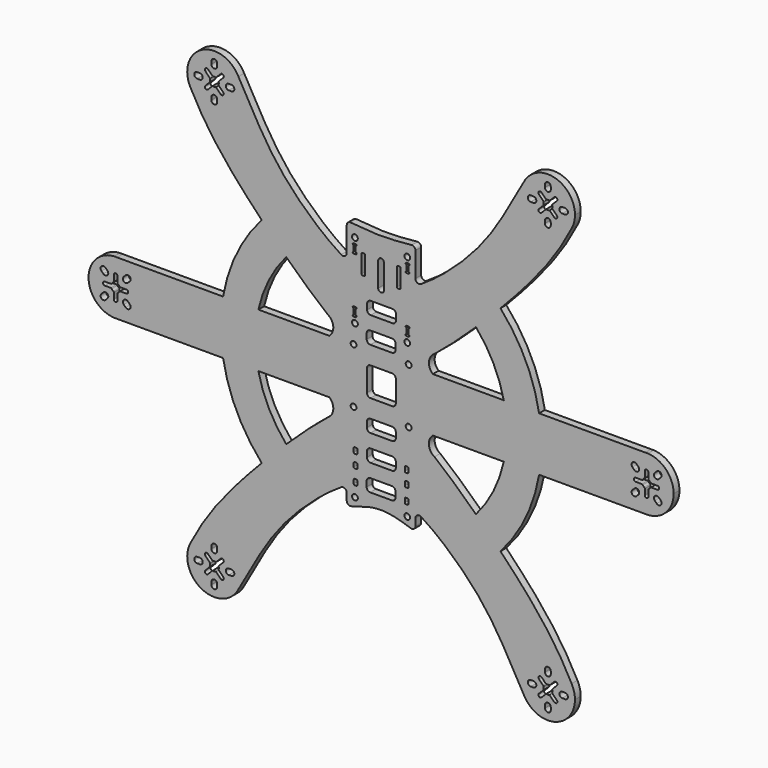
from build123d import *

# Parameters (mm, degrees)
F0_R     = 1.6
F1_DEPTH = 4


with BuildPart() as f1:
    # F0 (on Front) → F1 (new body)
    with BuildSketch(Plane.XZ):
        with BuildLine():
            ThreePointArc((-105.5713879056, 111.0188454458), (-88.6968670769, 103.6331164935), (-77.3869188983, 118.1721507653))
            ThreePointArc((-77.3869188983, 118.1721507653), (-77.8063360769, 121.6944518014), (-79.0411328435, 125.0197776959))
            ThreePointArc((-79.0411328435, 125.0197776959), (-99.3878496768, 131.4381587644), (-105.5713879056, 111.0188454458))
        make_face()
        with BuildLine():
            Line((-93.9869188983, 108.6721507653), (-93.9869188983, 110.1721507653))
            ThreePointArc((-93.9869188983, 110.1721507653), (-92.3869188983, 111.7721507653), (-90.7869188983, 110.1721507653))
            Line((-90.7869188983, 110.1721507653), (-90.7869188983, 108.6721507653))
            ThreePointArc((-90.7869188983, 108.6721507653), (-92.3869188983, 107.0721507653), (-93.9869188983, 108.6721507653))
        make_face(mode=Mode.SUBTRACT)
        with BuildLine():
            ThreePointArc((-101.8869188983, 116.5721507653), (-103.4869188983, 118.1721507653), (-101.8869188983, 119.7721507653))
            Line((-101.8869188983, 119.7721507653), (-100.3869188983, 119.7721507653))
            ThreePointArc((-100.3869188983, 119.7721507653), (-98.7869188983, 118.1721507653), (-100.3869188983, 116.5721507653))
            Line((-100.3869188983, 116.5721507653), (-101.8869188983, 116.5721507653))
        make_face(mode=Mode.SUBTRACT)
        with BuildLine():
            ThreePointArc((-94.801733464, 117.5251031525), (-94.8869188983, 118.1721507653), (-94.801733464, 118.819198378))
            ThreePointArc((-94.801733464, 118.819198378), (-94.801733464, 119.0780174231), (-94.9311429865, 119.3021612912))
            Line((-94.9311429865, 119.3021612912), (-97.3366663666, 121.7076846712))
            ThreePointArc((-97.3366663666, 121.7076846712), (-97.3366663666, 123.1218982336), (-95.9224528042, 123.1218982336))
            Line((-95.9224528042, 123.1218982336), (-93.5169294242, 120.7163748535))
            ThreePointArc((-93.5169294242, 120.7163748535), (-93.2927855561, 120.586965331), (-93.033966511, 120.586965331))
            ThreePointArc((-93.033966511, 120.586965331), (-92.3869188983, 120.6721507653), (-91.7398712855, 120.586965331))
            ThreePointArc((-91.7398712855, 120.586965331), (-91.4810522404, 120.586965331), (-91.2569083724, 120.7163748535))
            Line((-91.2569083724, 120.7163748535), (-88.8513849923, 123.1218982336))
            ThreePointArc((-88.8513849923, 123.1218982336), (-87.4371714299, 123.1218982336), (-87.4371714299, 121.7076846712))
            Line((-87.4371714299, 121.7076846712), (-89.84269481, 119.3021612912))
            ThreePointArc((-89.84269481, 119.3021612912), (-89.9721043325, 119.0780174231), (-89.9721043325, 118.819198378))
            ThreePointArc((-89.9721043325, 118.819198378), (-89.8869188983, 118.1721507653), (-89.9721043325, 117.5251031525))
            ThreePointArc((-89.9721043325, 117.5251031525), (-89.9721043325, 117.2662841074), (-89.84269481, 117.0421402394))
            Line((-89.84269481, 117.0421402394), (-87.4371714299, 114.6366168593))
            ThreePointArc((-87.4371714299, 114.6366168593), (-87.4371714299, 113.222403297), (-88.8513849923, 113.222403297))
            Line((-88.8513849923, 113.222403297), (-91.2569083724, 115.627926677))
            ThreePointArc((-91.2569083724, 115.627926677), (-91.4810522404, 115.7573361995), (-91.7398712855, 115.7573361995))
            ThreePointArc((-91.7398712855, 115.7573361995), (-92.3869188983, 115.6721507653), (-93.033966511, 115.7573361995))
            ThreePointArc((-93.033966511, 115.7573361995), (-93.2927855561, 115.7573361995), (-93.5169294242, 115.627926677))
            Line((-93.5169294242, 115.627926677), (-95.9224528042, 113.222403297))
            ThreePointArc((-95.9224528042, 113.222403297), (-97.3366663666, 113.222403297), (-97.3366663666, 114.6366168593))
            Line((-97.3366663666, 114.6366168593), (-94.9311429865, 117.0421402394))
            ThreePointArc((-94.9311429865, 117.0421402394), (-94.801733464, 117.2662841074), (-94.801733464, 117.5251031525))
        make_face(mode=Mode.SUBTRACT)
        with BuildLine():
            ThreePointArc((-84.3869188983, 116.5721507653), (-85.9869188983, 118.1721507653), (-84.3869188983, 119.7721507653))
            Line((-84.3869188983, 119.7721507653), (-82.8869188983, 119.7721507653))
            ThreePointArc((-82.8869188983, 119.7721507653), (-81.2869188983, 118.1721507653), (-82.8869188983, 116.5721507653))
            Line((-82.8869188983, 116.5721507653), (-84.3869188983, 116.5721507653))
        make_face(mode=Mode.SUBTRACT)
        with BuildLine():
            ThreePointArc((-90.7869188983, 126.1721507653), (-92.3869188983, 124.5721507653), (-93.9869188983, 126.1721507653))
            Line((-93.9869188983, 126.1721507653), (-93.9869188983, 127.6721507653))
            ThreePointArc((-93.9869188983, 127.6721507653), (-92.3869188983, 129.2721507653), (-90.7869188983, 127.6721507653))
            Line((-90.7869188983, 127.6721507653), (-90.7869188983, 126.1721507653))
        make_face(mode=Mode.SUBTRACT)
        with BuildLine():
            ThreePointArc((-79.0411328435, 125.0197776959), (-77.8063360769, 121.6944518014), (-77.3869188983, 118.1721507653))
            ThreePointArc((-77.3869188983, 118.1721507653), (-88.6968670769, 103.6331164935), (-105.5713879056, 111.0188454458))
            add(Edge.make_bspline(
                [(-105.5713879056, 111.0188454458), (-97.8274052901, 95.6939657635), (-85.9737093695, 80.2452610235), (-68.9632986794, 62.1858128488), (-66.1376752828, 59.2550292333)],
                knots=[0, 0, 0, 0, 0.480338048, 0.573254659, 0.573254659, 0.573254659, 0.573254659], degree=3))
            ThreePointArc((-66.1376752828, 59.2550292333), (-79.9576999847, 38.6279276483), (-87.5266956437, 14.9809255704))
            Line((-87.5266956437, 14.9809255704), (-146.3080467607, 14.9809255704))
            ThreePointArc((-146.3080467607, 14.9809255704), (-136.1935884668, 10.3357799993), (-132.0642670016, 0))
            ThreePointArc((-132.0642670016, 0), (-136.1935884668, -10.3357799993), (-146.3080467607, -14.9809255704))
            Line((-146.3080467607, -14.9809255704), (-87.5266956437, -14.9809255704))
            ThreePointArc((-87.5266956437, -14.9809255704), (-79.9576999847, -38.6279276483), (-66.1376752828, -59.2550292333))
            add(Edge.make_bspline(
                [(-105.5713879056, -111.0188454458), (-97.8274052901, -95.6939657635), (-85.9737093695, -80.2452610235), (-68.9632986794, -62.1858128488), (-66.1376752828, -59.2550292333)],
                knots=[0, 0, 0, 0, 0.480338048, 0.573254659, 0.573254659, 0.573254659, 0.573254659], degree=3))
            ThreePointArc((-105.5713879056, -111.0188454458), (-104.0179725909, -108.700161006), (-102.0618955387, -106.7093925017))
            ThreePointArc((-102.0618955387, -106.7093925017), (-86.067292707, -104.5683893441), (-77.3869188983, -118.1721507653))
            ThreePointArc((-77.3869188983, -118.1721507653), (-77.7970565862, -121.6558151743), (-79.0050412603, -124.9489753079))
            ThreePointArc((-79.0050412603, -124.9489753079), (-79.0230401626, -124.9844004038), (-79.0411328435, -125.0197776959))
            add(Edge.make_bspline(
                [(-79.0411328435, -125.0197776959), (-71.8040028834, -112.5784330128), (-59.8244834191, -87.461844024), (-33.1410664621, -63.5845996202), (-22.085370561, -56.7175460698)],
                knots=[0, 0, 0, 0, 0.4876514414, 0.9560359135, 0.9560359135, 0.9560359135, 0.9560359135], degree=3))
            ThreePointArc((-22.085370561, -56.7175460698), (-20.0581288424, -56.6685563297), (-19.0301015973, -58.4164890984))
            Line((-19.0301015973, -58.4164890984), (-19.0301015973, -62.3175262213))
            ThreePointArc((-19.0301015973, -62.3175262213), (-18.4443151597, -63.7317397836), (-17.0301015973, -64.3175262213))
            add(Edge.make_bspline(
                [(-17.0301015973, -64.3175262213), (-11.3534010649, -62.4912296981), (0, -58.8386366516), (11.3534010649, -62.4912296981), (17.0301015973, -64.3175262213)],
                knots=[0, 0, 0, 0, 0.5, 1, 1, 1, 1], degree=3))
            ThreePointArc((17.0301015973, -64.3175262213), (18.4443151597, -63.7317397836), (19.0301015973, -62.3175262213))
            Line((19.0301015973, -62.3175262213), (19.0301015973, -58.4164890984))
            ThreePointArc((19.0301015973, -58.4164890984), (20.0581288424, -56.6685563297), (22.085370561, -56.7175460698))
            add(Edge.make_bspline(
                [(79.0411328435, -125.0197776959), (71.8040028834, -112.5784330128), (59.8244834191, -87.461844024), (33.1410664621, -63.5845996202), (22.085370561, -56.7175460698)],
                knots=[0, 0, 0, 0, 0.4876514414, 0.9560359135, 0.9560359135, 0.9560359135, 0.9560359135], degree=3))
            ThreePointArc((79.0411328435, -125.0197776959), (79.0326849801, -125.0032880394), (79.0242574908, -124.9867879609))
            ThreePointArc((79.0242574908, -124.9867879609), (83.0640678897, -106.4212167993), (102.0618955387, -106.7093925017))
            ThreePointArc((102.0618955387, -106.7093925017), (104.0179725909, -108.700161006), (105.5713879056, -111.0188454458))
            add(Edge.make_bspline(
                [(105.5713879056, -111.0188454458), (97.8274052901, -95.6939657635), (85.9737093695, -80.2452610235), (68.9632986794, -62.1858128488), (66.1376752828, -59.2550292333)],
                knots=[0, 0, 0, 0, 0.480338048, 0.573254659, 0.573254659, 0.573254659, 0.573254659], degree=3))
            ThreePointArc((66.1376752828, -59.2550292333), (79.9576999847, -38.6279276483), (87.5266956437, -14.9809255704))
            Line((87.5266956437, -14.9809255704), (146.3080467607, -14.9809255704))
            ThreePointArc((146.3080467607, -14.9809255704), (132.0642670016, 0), (146.3080467607, 14.9809255704))
            Line((146.3080467607, 14.9809255704), (87.5266956437, 14.9809255704))
            ThreePointArc((87.5266956437, 14.9809255704), (79.9576999847, 38.6279276483), (66.1376752828, 59.2550292333))
            add(Edge.make_bspline(
                [(105.5713879056, 111.0188454458), (97.8274052901, 95.6939657635), (85.9737093695, 80.2452610235), (68.9632986794, 62.1858128488), (66.1376752828, 59.2550292333)],
                knots=[0, 0, 0, 0, 0.480338048, 0.573254659, 0.573254659, 0.573254659, 0.573254659], degree=3))
            ThreePointArc((105.5713879056, 111.0188454458), (85.3859881197, 104.9061427661), (79.0411328435, 125.0197776959))
            add(Edge.make_bspline(
                [(79.0411328435, 125.0197776959), (71.8040028834, 112.5784330128), (59.8244834191, 87.461844024), (33.1410664621, 63.5845996202), (22.085370561, 56.7175460698)],
                knots=[0, 0, 0, 0, 0.4876514414, 0.9560359135, 0.9560359135, 0.9560359135, 0.9560359135], degree=3))
            ThreePointArc((22.085370561, 56.7175460698), (20.0581288424, 56.6685563297), (19.0301015973, 58.4164890984))
            Line((19.0301015973, 58.4164890984), (19.0301015973, 72.1))
            ThreePointArc((19.0301015973, 72.1), (18.4443151597, 73.5142135624), (17.0301015973, 74.1))
            add(Edge.make_bspline(
                [(-17.0301015973, 74.1), (-11.3534010649, 73.5565261722), (0, 72.4695785165), (11.3534010649, 73.5565261722), (17.0301015973, 74.1)],
                knots=[0, 0, 0, 0, 0.5, 1, 1, 1, 1], degree=3))
            ThreePointArc((-17.0301015973, 74.1), (-18.4443151597, 73.5142135624), (-19.0301015973, 72.1))
            Line((-19.0301015973, 72.1), (-19.0301015973, 58.4164890984))
            ThreePointArc((-19.0301015973, 58.4164890984), (-20.0581288424, 56.6685563297), (-22.085370561, 56.7175460698))
            add(Edge.make_bspline(
                [(-79.0411328435, 125.0197776959), (-71.8040028834, 112.5784330128), (-59.8244834191, 87.461844024), (-33.1410664621, 63.5845996202), (-22.085370561, 56.7175460698)],
                knots=[0, 0, 0, 0, 0.4876514414, 0.9560359135, 0.9560359135, 0.9560359135, 0.9560359135], degree=3))
        make_face()
        with Locations((-14.5, -59.12254)):
            Circle(F0_R, mode=Mode.SUBTRACT)
        with BuildLine():
            ThreePointArc((-15.15, -50.6538487911), (-15.0035533906, -50.3002954005), (-14.65, -50.1538487911))
            Line((-14.65, -50.1538487911), (-13.65, -50.1538487911))
            ThreePointArc((-13.65, -50.1538487911), (-13.2964466094, -50.3002954005), (-13.15, -50.6538487911))
            Line((-13.15, -50.6538487911), (-13.15, -52.8538487911))
            ThreePointArc((-13.15, -52.8538487911), (-13.2964466094, -53.2074021817), (-13.65, -53.3538487911))
            Line((-13.65, -53.3538487911), (-14.65, -53.3538487911))
            ThreePointArc((-14.65, -53.3538487911), (-15.0035533906, -53.2074021817), (-15.15, -52.8538487911))
            Line((-15.15, -52.8538487911), (-15.15, -50.6538487911))
        make_face(mode=Mode.SUBTRACT)
        with BuildLine():
            ThreePointArc((-8, -49), (-7.4142135624, -47.5857864376), (-6, -47))
            Line((-6, -47), (6, -47))
            ThreePointArc((6, -47), (7.4142135624, -47.5857864376), (8, -49))
            Line((8, -49), (8, -52))
            ThreePointArc((8, -52), (7.4142135624, -53.4142135624), (6, -54))
            Line((6, -54), (-6, -54))
            ThreePointArc((-6, -54), (-7.4142135624, -53.4142135624), (-8, -52))
            Line((-8, -52), (-8, -49))
        make_face(mode=Mode.SUBTRACT)
        with BuildLine():
            ThreePointArc((-15.15, -42.4538487911), (-15.0035533906, -42.1002954005), (-14.65, -41.9538487911))
            Line((-14.65, -41.9538487911), (-13.65, -41.9538487911))
            ThreePointArc((-13.65, -41.9538487911), (-13.2964466094, -42.1002954005), (-13.15, -42.4538487911))
            Line((-13.15, -42.4538487911), (-13.15, -44.6538487911))
            ThreePointArc((-13.15, -44.6538487911), (-13.2964466094, -45.0074021817), (-13.65, -45.1538487911))
            Line((-13.65, -45.1538487911), (-14.65, -45.1538487911))
            ThreePointArc((-14.65, -45.1538487911), (-15.0035533906, -45.0074021817), (-15.15, -44.6538487911))
            Line((-15.15, -44.6538487911), (-15.15, -42.4538487911))
        make_face(mode=Mode.SUBTRACT)
        with BuildLine():
            ThreePointArc((-15.15, -35.2538487911), (-15.0035533906, -34.9002954005), (-14.65, -34.7538487911))
            Line((-14.65, -34.7538487911), (-13.65, -34.7538487911))
            ThreePointArc((-13.65, -34.7538487911), (-13.2964466094, -34.9002954005), (-13.15, -35.2538487911))
            Line((-13.15, -35.2538487911), (-13.15, -37.4538487911))
            ThreePointArc((-13.15, -37.4538487911), (-13.2964466094, -37.8074021817), (-13.65, -37.9538487911))
            Line((-13.65, -37.9538487911), (-14.65, -37.9538487911))
            ThreePointArc((-14.65, -37.9538487911), (-15.0035533906, -37.8074021817), (-15.15, -37.4538487911))
            Line((-15.15, -37.4538487911), (-15.15, -35.2538487911))
        make_face(mode=Mode.SUBTRACT)
        with BuildLine():
            add(Edge.make_bspline(
                [(-52.5473336844, -45.6424465027), (-43.9588873835, -37.3350194913), (-35.7005277984, -29.9082626603), (-29.5581503623, -25.0944091193)],
                knots=[0.7195066905, 0.7195066905, 0.7195066905, 0.7195066905, 0.9970586095, 0.9970586095, 0.9970586095, 0.9970586095], degree=3))
            ThreePointArc((-52.5473336844, -45.6424465027), (-62.1786636071, -31.2772919563), (-67.9707809955, -14.9809255704))
            Line((-67.9707809955, -14.9809255704), (-28.6635124433, -14.9809255704))
            ThreePointArc((-28.6635124433, -14.9809255704), (-26.49635872, -20.2689433823), (-29.5581503623, -25.0944091193))
        make_face(mode=Mode.SUBTRACT)
        with Locations((-15.25, -15.25)):
            Circle(F0_R, mode=Mode.SUBTRACT)
        with Locations((14.5, -59.12254)):
            Circle(F0_R, mode=Mode.SUBTRACT)
        with BuildLine():
            Line((13.65, -50.1538487911), (14.65, -50.1538487911))
            ThreePointArc((14.65, -50.1538487911), (15.0035533906, -50.3002954005), (15.15, -50.6538487911))
            Line((15.15, -50.6538487911), (15.15, -52.8538487911))
            ThreePointArc((15.15, -52.8538487911), (15.0035533906, -53.2074021817), (14.65, -53.3538487911))
            Line((14.65, -53.3538487911), (13.65, -53.3538487911))
            ThreePointArc((13.65, -53.3538487911), (13.2964466094, -53.2074021817), (13.15, -52.8538487911))
            Line((13.15, -52.8538487911), (13.15, -50.6538487911))
            ThreePointArc((13.15, -50.6538487911), (13.2964466094, -50.3002954005), (13.65, -50.1538487911))
        make_face(mode=Mode.SUBTRACT)
        with BuildLine():
            Line((13.15, -44.6538487911), (13.15, -42.4538487911))
            ThreePointArc((13.15, -42.4538487911), (13.2964466094, -42.1002954005), (13.65, -41.9538487911))
            Line((13.65, -41.9538487911), (14.65, -41.9538487911))
            ThreePointArc((14.65, -41.9538487911), (15.0035533906, -42.1002954005), (15.15, -42.4538487911))
            Line((15.15, -42.4538487911), (15.15, -44.6538487911))
            ThreePointArc((15.15, -44.6538487911), (15.0035533906, -45.0074021817), (14.65, -45.1538487911))
            Line((14.65, -45.1538487911), (13.65, -45.1538487911))
            ThreePointArc((13.65, -45.1538487911), (13.2964466094, -45.0074021817), (13.15, -44.6538487911))
        make_face(mode=Mode.SUBTRACT)
        with BuildLine():
            ThreePointArc((-7.8507452256, -34.5), (-7.2649587879, -33.0857864376), (-5.8507452256, -32.5))
            Line((-5.8507452256, -32.5), (6.1492547744, -32.5))
            ThreePointArc((6.1492547744, -32.5), (7.5634683368, -33.0857864376), (8.1492547744, -34.5))
            Line((8.1492547744, -34.5), (8.1492547744, -37.5))
            ThreePointArc((8.1492547744, -37.5), (7.5634683368, -38.9142135624), (6.1492547744, -39.5))
            Line((6.1492547744, -39.5), (-5.8507452256, -39.5))
            ThreePointArc((-5.8507452256, -39.5), (-7.2649587879, -38.9142135624), (-7.8507452256, -37.5))
            Line((-7.8507452256, -37.5), (-7.8507452256, -34.5))
        make_face(mode=Mode.SUBTRACT)
        with BuildLine():
            Line((13.65, -34.7538487911), (14.65, -34.7538487911))
            ThreePointArc((14.65, -34.7538487911), (15.0035533906, -34.9002954005), (15.15, -35.2538487911))
            Line((15.15, -35.2538487911), (15.15, -37.4538487911))
            ThreePointArc((15.15, -37.4538487911), (15.0035533906, -37.8074021817), (14.65, -37.9538487911))
            Line((14.65, -37.9538487911), (13.65, -37.9538487911))
            ThreePointArc((13.65, -37.9538487911), (13.2964466094, -37.8074021817), (13.15, -37.4538487911))
            Line((13.15, -37.4538487911), (13.15, -35.2538487911))
            ThreePointArc((13.15, -35.2538487911), (13.2964466094, -34.9002954005), (13.65, -34.7538487911))
        make_face(mode=Mode.SUBTRACT)
        with BuildLine():
            ThreePointArc((-7.8507452256, -20), (-7.2649587879, -18.5857864376), (-5.8507452256, -18))
            Line((-5.8507452256, -18), (6.1492547744, -18))
            ThreePointArc((6.1492547744, -18), (7.5634683368, -18.5857864376), (8.1492547744, -20))
            Line((8.1492547744, -20), (8.1492547744, -23))
            ThreePointArc((8.1492547744, -23), (7.5634683368, -24.4142135624), (6.1492547744, -25))
            Line((6.1492547744, -25), (-5.8507452256, -25))
            ThreePointArc((-5.8507452256, -25), (-7.2649587879, -24.4142135624), (-7.8507452256, -23))
            Line((-7.8507452256, -23), (-7.8507452256, -20))
        make_face(mode=Mode.SUBTRACT)
        with Locations((15.25, -15.25)):
            Circle(F0_R, mode=Mode.SUBTRACT)
        with BuildLine():
            ThreePointArc((67.9707809955, -14.9809255704), (62.1786636071, -31.2772919563), (52.5473336844, -45.6424465027))
            add(Edge.make_bspline(
                [(52.5473336844, -45.6424465027), (43.9588873835, -37.3350194913), (35.7005277984, -29.9082626603), (29.5581503623, -25.0944091193)],
                knots=[0.7195066905, 0.7195066905, 0.7195066905, 0.7195066905, 0.9970586095, 0.9970586095, 0.9970586095, 0.9970586095], degree=3))
            ThreePointArc((29.5581503623, -25.0944091193), (26.49635872, -20.2689433823), (28.6635124433, -14.9809255704))
            Line((28.6635124433, -14.9809255704), (67.9707809955, -14.9809255704))
        make_face(mode=Mode.SUBTRACT)
        with BuildLine():
            ThreePointArc((-67.9707809955, 14.9809255704), (-62.1786636071, 31.2772919563), (-52.5473336844, 45.6424465027))
            add(Edge.make_bspline(
                [(-52.5473336844, 45.6424465027), (-43.9588873835, 37.3350194913), (-35.7005277984, 29.9082626603), (-29.5581503623, 25.0944091193)],
                knots=[0.7195066905, 0.7195066905, 0.7195066905, 0.7195066905, 0.9970586095, 0.9970586095, 0.9970586095, 0.9970586095], degree=3))
            ThreePointArc((-29.5581503623, 25.0944091193), (-26.49635872, 20.2689433823), (-28.6635124433, 14.9809255704))
            Line((-28.6635124433, 14.9809255704), (-67.9707809955, 14.9809255704))
        make_face(mode=Mode.SUBTRACT)
        with Locations((-15.25, 15.25)):
            Circle(F0_R, mode=Mode.SUBTRACT)
        with Locations((-14.5, 25.75)):
            Circle(F0_R, mode=Mode.SUBTRACT)
        with BuildLine():
            ThreePointArc((-15.71, 33.29437), (-15.5635533906, 33.6479233906), (-15.21, 33.79437))
            Line((-15.21, 33.79437), (-14.09, 33.79437))
            ThreePointArc((-14.09, 33.79437), (-13.7364466094, 33.6479233906), (-13.59, 33.29437))
            ThreePointArc((-13.59, 33.29437), (-13.7364466094, 32.9408166094), (-14.09, 32.79437))
            Line((-14.09, 32.79437), (-14.15, 32.79437))
            Line((-14.15, 32.79437), (-14.15, 29.76337))
            Line((-14.15, 29.76337), (-14.09, 29.76337))
            ThreePointArc((-14.09, 29.76337), (-13.7364466094, 29.6169233906), (-13.59, 29.26337))
            ThreePointArc((-13.59, 29.26337), (-13.7364466094, 28.9098166094), (-14.09, 28.76337))
            Line((-14.09, 28.76337), (-15.21, 28.76337))
            ThreePointArc((-15.21, 28.76337), (-15.5635533906, 28.9098166094), (-15.71, 29.26337))
            ThreePointArc((-15.71, 29.26337), (-15.5635533906, 29.6169233906), (-15.21, 29.76337))
            Line((-15.21, 29.76337), (-15.15, 29.76337))
            Line((-15.15, 29.76337), (-15.15, 32.79437))
            Line((-15.15, 32.79437), (-15.21, 32.79437))
            ThreePointArc((-15.21, 32.79437), (-15.5635533906, 32.9408166094), (-15.71, 33.29437))
        make_face(mode=Mode.SUBTRACT)
        with BuildLine():
            ThreePointArc((-1.6, 60.5), (0, 62.1), (1.6, 60.5))
            Line((1.6, 60.5), (1.6, 47))
            ThreePointArc((1.6, 47), (0, 45.4), (-1.6, 47))
            Line((-1.6, 47), (-1.6, 60.5))
        make_face(mode=Mode.SUBTRACT)
        with BuildLine():
            ThreePointArc((-10.8233798742, 60.9179187119), (-10.6769332648, 61.2714721025), (-10.3233798742, 61.4179187119))
            Line((-10.3233798742, 61.4179187119), (-9.3233798742, 61.4179187119))
            ThreePointArc((-9.3233798742, 61.4179187119), (-8.9698264836, 61.2714721025), (-8.8233798742, 60.9179187119))
            Line((-8.8233798742, 60.9179187119), (-8.8233798742, 50.9179187119))
            ThreePointArc((-8.8233798742, 50.9179187119), (-8.9698264836, 50.5643653213), (-9.3233798742, 50.4179187119))
            Line((-9.3233798742, 50.4179187119), (-10.3233798742, 50.4179187119))
            ThreePointArc((-10.3233798742, 50.4179187119), (-10.6769332648, 50.5643653213), (-10.8233798742, 50.9179187119))
            Line((-10.8233798742, 50.9179187119), (-10.8233798742, 60.9179187119))
        make_face(mode=Mode.SUBTRACT)
        with BuildLine():
            Line((-14.09, 63.50137), (-14.15, 63.50137))
            Line((-14.15, 63.50137), (-14.15, 60.47037))
            Line((-14.15, 60.47037), (-14.09, 60.47037))
            ThreePointArc((-14.09, 60.47037), (-13.7364466094, 60.3239233906), (-13.59, 59.97037))
            ThreePointArc((-13.59, 59.97037), (-13.7364466094, 59.6168166094), (-14.09, 59.47037))
            Line((-14.09, 59.47037), (-15.21, 59.47037))
            ThreePointArc((-15.21, 59.47037), (-15.5635533906, 59.6168166094), (-15.71, 59.97037))
            ThreePointArc((-15.71, 59.97037), (-15.5635533906, 60.3239233906), (-15.21, 60.47037))
            Line((-15.21, 60.47037), (-15.15, 60.47037))
            Line((-15.15, 60.47037), (-15.15, 63.50137))
            Line((-15.15, 63.50137), (-15.21, 63.50137))
            ThreePointArc((-15.21, 63.50137), (-15.5635533906, 63.6478166094), (-15.71, 64.00137))
            ThreePointArc((-15.71, 64.00137), (-15.5635533906, 64.3549233906), (-15.21, 64.50137))
            Line((-15.21, 64.50137), (-14.09, 64.50137))
            ThreePointArc((-14.09, 64.50137), (-13.7364466094, 64.3549233906), (-13.59, 64.00137))
            ThreePointArc((-13.59, 64.00137), (-13.7364466094, 63.6478166094), (-14.09, 63.50137))
        make_face(mode=Mode.SUBTRACT)
        with Locations((-14.5, 67.5)):
            Circle(F0_R, mode=Mode.SUBTRACT)
        with BuildLine():
            ThreePointArc((-7.8507434939, 6), (-7.2649570563, 7.4142135624), (-5.8507434939, 8))
            Line((-5.8507434939, 8), (6.1492565061, 8))
            ThreePointArc((6.1492565061, 8), (7.5634700685, 7.4142135624), (8.1492565061, 6))
            Line((8.1492565061, 6), (8.1492565061, -6))
            ThreePointArc((8.1492565061, -6), (7.5634700685, -7.4142135624), (6.1492565061, -8))
            Line((6.1492565061, -8), (-5.8507434939, -8))
            ThreePointArc((-5.8507434939, -8), (-7.2649570563, -7.4142135624), (-7.8507434939, -6))
            Line((-7.8507434939, -6), (-7.8507434939, 6))
        make_face(mode=Mode.SUBTRACT)
        with Locations((15.25, 15.25)):
            Circle(F0_R, mode=Mode.SUBTRACT)
        with BuildLine():
            ThreePointArc((-7.9739895247, 23), (-7.3882030871, 24.4142135624), (-5.9739895247, 25))
            Line((-5.9739895247, 25), (6.0260104753, 25))
            ThreePointArc((6.0260104753, 25), (7.4402240376, 24.4142135624), (8.0260104753, 23))
            Line((8.0260104753, 23), (8.0260104753, 20))
            ThreePointArc((8.0260104753, 20), (7.4402240376, 18.5857864376), (6.0260104753, 18))
            Line((6.0260104753, 18), (-5.9739895247, 18))
            ThreePointArc((-5.9739895247, 18), (-7.3882030871, 18.5857864376), (-7.9739895247, 20))
            Line((-7.9739895247, 20), (-7.9739895247, 23))
        make_face(mode=Mode.SUBTRACT)
        with Locations((14.5, 25.75)):
            Circle(F0_R, mode=Mode.SUBTRACT)
        with BuildLine():
            ThreePointArc((14.09, 28.76337), (13.7364466094, 28.9098166094), (13.59, 29.26337))
            ThreePointArc((13.59, 29.26337), (13.7364466094, 29.6169233906), (14.09, 29.76337))
            Line((14.09, 29.76337), (14.15, 29.76337))
            Line((14.15, 29.76337), (14.15, 32.79437))
            Line((14.15, 32.79437), (14.09, 32.79437))
            ThreePointArc((14.09, 32.79437), (13.7364466094, 32.9408166094), (13.59, 33.29437))
            ThreePointArc((13.59, 33.29437), (13.7364466094, 33.6479233906), (14.09, 33.79437))
            Line((14.09, 33.79437), (15.21, 33.79437))
            ThreePointArc((15.21, 33.79437), (15.5635533906, 33.6479233906), (15.71, 33.29437))
            ThreePointArc((15.71, 33.29437), (15.5635533906, 32.9408166094), (15.21, 32.79437))
            Line((15.21, 32.79437), (15.15, 32.79437))
            Line((15.15, 32.79437), (15.15, 29.76337))
            Line((15.15, 29.76337), (15.21, 29.76337))
            ThreePointArc((15.21, 29.76337), (15.5635533906, 29.6169233906), (15.71, 29.26337))
            ThreePointArc((15.71, 29.26337), (15.5635533906, 28.9098166094), (15.21, 28.76337))
            Line((15.21, 28.76337), (14.09, 28.76337))
        make_face(mode=Mode.SUBTRACT)
        with BuildLine():
            add(Edge.make_bspline(
                [(52.5473336844, 45.6424465027), (43.9588873835, 37.3350194913), (35.7005277984, 29.9082626603), (29.5581503623, 25.0944091193)],
                knots=[0.7195066905, 0.7195066905, 0.7195066905, 0.7195066905, 0.9970586095, 0.9970586095, 0.9970586095, 0.9970586095], degree=3))
            ThreePointArc((52.5473336844, 45.6424465027), (62.1786636071, 31.2772919563), (67.9707809955, 14.9809255704))
            Line((67.9707809955, 14.9809255704), (28.6635124433, 14.9809255704))
            ThreePointArc((28.6635124433, 14.9809255704), (26.49635872, 20.2689433823), (29.5581503623, 25.0944091193))
        make_face(mode=Mode.SUBTRACT)
        with BuildLine():
            ThreePointArc((-7.7274974012, 37.5), (-7.1417109636, 38.9142135624), (-5.7274974012, 39.5))
            Line((-5.7274974012, 39.5), (6.2725025988, 39.5))
            ThreePointArc((6.2725025988, 39.5), (7.6867161612, 38.9142135624), (8.2725025988, 37.5))
            Line((8.2725025988, 37.5), (8.2725025988, 34.5))
            ThreePointArc((8.2725025988, 34.5), (7.6867161612, 33.0857864376), (6.2725025988, 32.5))
            Line((6.2725025988, 32.5), (-5.7274974012, 32.5))
            ThreePointArc((-5.7274974012, 32.5), (-7.1417109636, 33.0857864376), (-7.7274974012, 34.5))
            Line((-7.7274974012, 34.5), (-7.7274974012, 37.5))
        make_face(mode=Mode.SUBTRACT)
        with BuildLine():
            Line((8.8233798742, 50.9179187119), (8.8233798742, 60.9179187119))
            ThreePointArc((8.8233798742, 60.9179187119), (8.9698264836, 61.2714721025), (9.3233798742, 61.4179187119))
            Line((9.3233798742, 61.4179187119), (10.3233798742, 61.4179187119))
            ThreePointArc((10.3233798742, 61.4179187119), (10.6769332648, 61.2714721025), (10.8233798742, 60.9179187119))
            Line((10.8233798742, 60.9179187119), (10.8233798742, 50.9179187119))
            ThreePointArc((10.8233798742, 50.9179187119), (10.6769332648, 50.5643653213), (10.3233798742, 50.4179187119))
            Line((10.3233798742, 50.4179187119), (9.3233798742, 50.4179187119))
            ThreePointArc((9.3233798742, 50.4179187119), (8.9698264836, 50.5643653213), (8.8233798742, 50.9179187119))
        make_face(mode=Mode.SUBTRACT)
        with BuildLine():
            ThreePointArc((13.59, 59.97037), (13.7364466094, 60.3239233906), (14.09, 60.47037))
            Line((14.09, 60.47037), (14.15, 60.47037))
            Line((14.15, 60.47037), (14.15, 63.50137))
            Line((14.15, 63.50137), (14.09, 63.50137))
            ThreePointArc((14.09, 63.50137), (13.7364466094, 63.6478166094), (13.59, 64.00137))
            ThreePointArc((13.59, 64.00137), (13.7364466094, 64.3549233906), (14.09, 64.50137))
            Line((14.09, 64.50137), (15.21, 64.50137))
            ThreePointArc((15.21, 64.50137), (15.5635533906, 64.3549233906), (15.71, 64.00137))
            ThreePointArc((15.71, 64.00137), (15.5635533906, 63.6478166094), (15.21, 63.50137))
            Line((15.21, 63.50137), (15.15, 63.50137))
            Line((15.15, 63.50137), (15.15, 60.47037))
            Line((15.15, 60.47037), (15.21, 60.47037))
            ThreePointArc((15.21, 60.47037), (15.5635533906, 60.3239233906), (15.71, 59.97037))
            ThreePointArc((15.71, 59.97037), (15.5635533906, 59.6168166094), (15.21, 59.47037))
            Line((15.21, 59.47037), (14.09, 59.47037))
            ThreePointArc((14.09, 59.47037), (13.7364466094, 59.6168166094), (13.59, 59.97037))
        make_face(mode=Mode.SUBTRACT)
        with Locations((14.5, 67.5)):
            Circle(F0_R, mode=Mode.SUBTRACT)
        with BuildLine():
            Line((-147.8204872424, 14.9809255704), (-146.3080467607, 14.9809255704))
            ThreePointArc((-146.3080467607, 14.9809255704), (-147.0642670016, 15), (-147.8204872424, 14.9809255704))
        make_face()
        with BuildLine():
            ThreePointArc((-132.0642670016, 0), (-136.1935884668, 10.3357799993), (-146.3080467607, 14.9809255704))
            Line((-146.3080467607, 14.9809255704), (-147.8204872424, 14.9809255704))
            ThreePointArc((-147.8204872424, 14.9809255704), (-162.0642670016, 0), (-147.8204872424, -14.9809255704))
            Line((-147.8204872424, -14.9809255704), (-146.3080467607, -14.9809255704))
            ThreePointArc((-146.3080467607, -14.9809255704), (-136.1935884668, -10.3357799993), (-132.0642670016, 0))
        make_face()
        with BuildLine():
            Line((-151.5897504012, -6.7882250994), (-152.6504105729, -7.8488852712))
            ThreePointArc((-152.6504105729, -7.8488852712), (-154.9131522727, -7.8488852712), (-154.9131522727, -5.5861435714))
            Line((-154.9131522727, -5.5861435714), (-153.852492101, -4.5254833996))
            ThreePointArc((-153.852492101, -4.5254833996), (-151.5897504012, -4.5254833996), (-151.5897504012, -6.7882250994))
        make_face(mode=Mode.SUBTRACT)
        with BuildLine():
            ThreePointArc((-139.2153817304, -5.5861435714), (-139.2153817304, -7.8488852712), (-141.4781234302, -7.8488852712))
            Line((-141.4781234302, -7.8488852712), (-142.538783602, -6.7882250994))
            ThreePointArc((-142.538783602, -6.7882250994), (-142.538783602, -4.5254833996), (-140.2760419022, -4.5254833996))
            Line((-140.2760419022, -4.5254833996), (-139.2153817304, -5.5861435714))
        make_face(mode=Mode.SUBTRACT)
        with BuildLine():
            ThreePointArc((-154.9131522727, 5.5861435714), (-154.9131522727, 7.8488852712), (-152.6504105729, 7.8488852712))
            Line((-152.6504105729, 7.8488852712), (-151.5897504012, 6.7882250994))
            ThreePointArc((-151.5897504012, 6.7882250994), (-151.5897504012, 4.5254833996), (-153.852492101, 4.5254833996))
            Line((-153.852492101, 4.5254833996), (-154.9131522727, 5.5861435714))
        make_face(mode=Mode.SUBTRACT)
        with BuildLine():
            ThreePointArc((-149.229330511, 1.25), (-148.8320339545, 1.767766953), (-148.3142670016, 2.1650635095))
            ThreePointArc((-148.3142670016, 2.1650635095), (-148.1312542997, 2.3480762114), (-148.0642670016, 2.5980762114))
            Line((-148.0642670016, 2.5980762114), (-148.0642670016, 6))
            ThreePointArc((-148.0642670016, 6), (-147.0642670016, 7), (-146.0642670016, 6))
            Line((-146.0642670016, 6), (-146.0642670016, 2.5980762114))
            ThreePointArc((-146.0642670016, 2.5980762114), (-145.9972797035, 2.3480762114), (-145.8142670016, 2.1650635095))
            ThreePointArc((-145.8142670016, 2.1650635095), (-145.2965000486, 1.767766953), (-144.8992034921, 1.25))
            ThreePointArc((-144.8992034921, 1.25), (-144.7161907902, 1.0669872981), (-144.4661907902, 1))
            Line((-144.4661907902, 1), (-141.0642670016, 1))
            ThreePointArc((-141.0642670016, 1), (-140.0642670016, 0), (-141.0642670016, -1))
            Line((-141.0642670016, -1), (-144.4661907902, -1))
            ThreePointArc((-144.4661907902, -1), (-144.7161907902, -1.0669872981), (-144.8992034921, -1.25))
            ThreePointArc((-144.8992034921, -1.25), (-145.2965000486, -1.767766953), (-145.8142670016, -2.1650635095))
            ThreePointArc((-145.8142670016, -2.1650635095), (-145.9972797035, -2.3480762114), (-146.0642670016, -2.5980762114))
            Line((-146.0642670016, -2.5980762114), (-146.0642670016, -6))
            ThreePointArc((-146.0642670016, -6), (-147.0642670016, -7), (-148.0642670016, -6))
            Line((-148.0642670016, -6), (-148.0642670016, -2.5980762114))
            ThreePointArc((-148.0642670016, -2.5980762114), (-148.1312542997, -2.3480762114), (-148.3142670016, -2.1650635095))
            ThreePointArc((-148.3142670016, -2.1650635095), (-148.8320339545, -1.767766953), (-149.229330511, -1.25))
            ThreePointArc((-149.229330511, -1.25), (-149.4123432129, -1.0669872981), (-149.6623432129, -1))
            Line((-149.6623432129, -1), (-153.0642670016, -1))
            ThreePointArc((-153.0642670016, -1), (-154.0642670016, 0), (-153.0642670016, 1))
            Line((-153.0642670016, 1), (-149.6623432129, 1))
            ThreePointArc((-149.6623432129, 1), (-149.4123432129, 1.0669872981), (-149.229330511, 1.25))
        make_face(mode=Mode.SUBTRACT)
        with BuildLine():
            Line((-142.538783602, 6.7882250994), (-141.4781234302, 7.8488852712))
            ThreePointArc((-141.4781234302, 7.8488852712), (-139.2153817304, 7.8488852712), (-139.2153817304, 5.5861435714))
            Line((-139.2153817304, 5.5861435714), (-140.2760419022, 4.5254833996))
            ThreePointArc((-140.2760419022, 4.5254833996), (-142.538783602, 4.5254833996), (-142.538783602, 6.7882250994))
        make_face(mode=Mode.SUBTRACT)
        with BuildLine():
            ThreePointArc((-147.8204872424, -14.9809255704), (-147.0642670016, -15), (-146.3080467607, -14.9809255704))
            Line((-146.3080467607, -14.9809255704), (-147.8204872424, -14.9809255704))
        make_face()
        with BuildLine():
            Line((-102.0618955387, -106.7093925017), (-105.5713879056, -111.0188454458))
            ThreePointArc((-105.5713879056, -111.0188454458), (-101.6256107881, -129.9893658418), (-82.2635446351, -129.2409037902))
            Line((-82.2635446351, -129.2409037902), (-79.0050412603, -124.9489753079))
            ThreePointArc((-79.0050412603, -124.9489753079), (-77.7970565862, -121.6558151743), (-77.3869188983, -118.1721507653))
            ThreePointArc((-77.3869188983, -118.1721507653), (-86.067292707, -104.5683893441), (-102.0618955387, -106.7093925017))
        make_face()
        with BuildLine():
            ThreePointArc((-90.7869188983, -127.6721507653), (-92.3869188983, -129.2721507653), (-93.9869188983, -127.6721507653))
            Line((-93.9869188983, -127.6721507653), (-93.9869188983, -126.1721507653))
            ThreePointArc((-93.9869188983, -126.1721507653), (-92.3869188983, -124.5721507653), (-90.7869188983, -126.1721507653))
            Line((-90.7869188983, -126.1721507653), (-90.7869188983, -127.6721507653))
        make_face(mode=Mode.SUBTRACT)
        with BuildLine():
            Line((-100.3869188983, -119.7721507653), (-101.8869188983, -119.7721507653))
            ThreePointArc((-101.8869188983, -119.7721507653), (-103.4869188983, -118.1721507653), (-101.8869188983, -116.5721507653))
            Line((-101.8869188983, -116.5721507653), (-100.3869188983, -116.5721507653))
            ThreePointArc((-100.3869188983, -116.5721507653), (-98.7869188983, -118.1721507653), (-100.3869188983, -119.7721507653))
        make_face(mode=Mode.SUBTRACT)
        with BuildLine():
            ThreePointArc((-89.9721043325, -117.5251031525), (-89.9083067448, -117.8458352847), (-89.8869188983, -118.1721507653))
            ThreePointArc((-89.8869188983, -118.1721507653), (-89.9083067448, -118.4984662458), (-89.9721043325, -118.819198378))
            ThreePointArc((-89.9721043325, -118.819198378), (-89.9721043325, -119.0780174231), (-89.84269481, -119.3021612912))
            Line((-89.84269481, -119.3021612912), (-87.4371714299, -121.7076846712))
            ThreePointArc((-87.4371714299, -121.7076846712), (-87.4371714299, -123.1218982336), (-88.8513849923, -123.1218982336))
            Line((-88.8513849923, -123.1218982336), (-91.2569083724, -120.7163748535))
            ThreePointArc((-91.2569083724, -120.7163748535), (-91.4810522404, -120.586965331), (-91.7398712855, -120.586965331))
            ThreePointArc((-91.7398712855, -120.586965331), (-92.3869188983, -120.6721507653), (-93.033966511, -120.586965331))
            ThreePointArc((-93.033966511, -120.586965331), (-93.2927855561, -120.586965331), (-93.5169294242, -120.7163748535))
            Line((-93.5169294242, -120.7163748535), (-95.9224528042, -123.1218982336))
            ThreePointArc((-95.9224528042, -123.1218982336), (-97.3366663666, -123.1218982336), (-97.3366663666, -121.7076846712))
            Line((-97.3366663666, -121.7076846712), (-94.9311429865, -119.3021612912))
            ThreePointArc((-94.9311429865, -119.3021612912), (-94.801733464, -119.0780174231), (-94.801733464, -118.819198378))
            ThreePointArc((-94.801733464, -118.819198378), (-94.8869188983, -118.1721507653), (-94.801733464, -117.5251031525))
            ThreePointArc((-94.801733464, -117.5251031525), (-94.801733464, -117.2662841074), (-94.9311429865, -117.0421402394))
            Line((-94.9311429865, -117.0421402394), (-97.3366663666, -114.6366168593))
            ThreePointArc((-97.3366663666, -114.6366168593), (-97.3366663666, -113.222403297), (-95.9224528042, -113.222403297))
            Line((-95.9224528042, -113.222403297), (-93.5169294242, -115.627926677))
            ThreePointArc((-93.5169294242, -115.627926677), (-93.2927855561, -115.7573361995), (-93.033966511, -115.7573361995))
            ThreePointArc((-93.033966511, -115.7573361995), (-92.3869188983, -115.6721507653), (-91.7398712855, -115.7573361995))
            ThreePointArc((-91.7398712855, -115.7573361995), (-91.4810522404, -115.7573361995), (-91.2569083724, -115.627926677))
            Line((-91.2569083724, -115.627926677), (-88.8513849923, -113.222403297))
            ThreePointArc((-88.8513849923, -113.222403297), (-87.4371714299, -113.222403297), (-87.4371714299, -114.6366168593))
            Line((-87.4371714299, -114.6366168593), (-89.84269481, -117.0421402394))
            ThreePointArc((-89.84269481, -117.0421402394), (-89.9721043325, -117.2662841074), (-89.9721043325, -117.5251031525))
        make_face(mode=Mode.SUBTRACT)
        with BuildLine():
            Line((-84.3869188983, -116.5721507653), (-82.8869188983, -116.5721507653))
            ThreePointArc((-82.8869188983, -116.5721507653), (-81.2869188983, -118.1721507653), (-82.8869188983, -119.7721507653))
            Line((-82.8869188983, -119.7721507653), (-84.3869188983, -119.7721507653))
            ThreePointArc((-84.3869188983, -119.7721507653), (-85.9869188983, -118.1721507653), (-84.3869188983, -116.5721507653))
        make_face(mode=Mode.SUBTRACT)
        with BuildLine():
            ThreePointArc((-93.9869188983, -108.6721507653), (-92.3869188983, -107.0721507653), (-90.7869188983, -108.6721507653))
            Line((-90.7869188983, -108.6721507653), (-90.7869188983, -110.1721507653))
            ThreePointArc((-90.7869188983, -110.1721507653), (-92.3869188983, -111.7721507653), (-93.9869188983, -110.1721507653))
            Line((-93.9869188983, -110.1721507653), (-93.9869188983, -108.6721507653))
        make_face(mode=Mode.SUBTRACT)
        with BuildLine():
            ThreePointArc((-102.0618955387, -106.7093925017), (-104.0179725909, -108.700161006), (-105.5713879056, -111.0188454458))
            Line((-105.5713879056, -111.0188454458), (-102.0618955387, -106.7093925017))
        make_face()
        with BuildLine():
            ThreePointArc((107.3869188983, 118.1721507653), (95.9092199344, 132.7527335866), (79.0411328435, 125.0197776959))
            ThreePointArc((79.0411328435, 125.0197776959), (85.3859881197, 104.9061427661), (105.5713879056, 111.0188454458))
            ThreePointArc((105.5713879056, 111.0188454458), (106.92595317, 114.4820989439), (107.3869188983, 118.1721507653))
        make_face()
        with BuildLine():
            ThreePointArc((90.7869188983, 110.1721507653), (92.3869188983, 111.7721507653), (93.9869188983, 110.1721507653))
            Line((93.9869188983, 110.1721507653), (93.9869188983, 108.6721507653))
            ThreePointArc((93.9869188983, 108.6721507653), (92.3869188983, 107.0721507653), (90.7869188983, 108.6721507653))
            Line((90.7869188983, 108.6721507653), (90.7869188983, 110.1721507653))
        make_face(mode=Mode.SUBTRACT)
        with BuildLine():
            ThreePointArc((82.8869188983, 116.5721507653), (81.2869188983, 118.1721507653), (82.8869188983, 119.7721507653))
            Line((82.8869188983, 119.7721507653), (84.3869188983, 119.7721507653))
            ThreePointArc((84.3869188983, 119.7721507653), (85.9869188983, 118.1721507653), (84.3869188983, 116.5721507653))
            Line((84.3869188983, 116.5721507653), (82.8869188983, 116.5721507653))
        make_face(mode=Mode.SUBTRACT)
        with BuildLine():
            ThreePointArc((94.801733464, 118.819198378), (94.8655310517, 118.4984662458), (94.8869188983, 118.1721507653))
            ThreePointArc((94.8869188983, 118.1721507653), (94.8655310517, 117.8458352847), (94.801733464, 117.5251031525))
            ThreePointArc((94.801733464, 117.5251031525), (94.801733464, 117.2662841074), (94.9311429865, 117.0421402394))
            Line((94.9311429865, 117.0421402394), (97.3366663666, 114.6366168593))
            ThreePointArc((97.3366663666, 114.6366168593), (97.3366663666, 113.222403297), (95.9224528042, 113.222403297))
            Line((95.9224528042, 113.222403297), (93.5169294242, 115.627926677))
            ThreePointArc((93.5169294242, 115.627926677), (93.2927855561, 115.7573361995), (93.033966511, 115.7573361995))
            ThreePointArc((93.033966511, 115.7573361995), (92.3869188983, 115.6721507653), (91.7398712855, 115.7573361995))
            ThreePointArc((91.7398712855, 115.7573361995), (91.4810522404, 115.7573361995), (91.2569083724, 115.627926677))
            Line((91.2569083724, 115.627926677), (88.8513849923, 113.222403297))
            ThreePointArc((88.8513849923, 113.222403297), (87.4371714299, 113.222403297), (87.4371714299, 114.6366168593))
            Line((87.4371714299, 114.6366168593), (89.84269481, 117.0421402394))
            ThreePointArc((89.84269481, 117.0421402394), (89.9721043325, 117.2662841074), (89.9721043325, 117.5251031525))
            ThreePointArc((89.9721043325, 117.5251031525), (89.8869188983, 118.1721507653), (89.9721043325, 118.819198378))
            ThreePointArc((89.9721043325, 118.819198378), (89.9721043325, 119.0780174231), (89.84269481, 119.3021612912))
            Line((89.84269481, 119.3021612912), (87.4371714299, 121.7076846712))
            ThreePointArc((87.4371714299, 121.7076846712), (87.4371714299, 123.1218982336), (88.8513849923, 123.1218982336))
            Line((88.8513849923, 123.1218982336), (91.2569083724, 120.7163748535))
            ThreePointArc((91.2569083724, 120.7163748535), (91.4810522404, 120.586965331), (91.7398712855, 120.586965331))
            ThreePointArc((91.7398712855, 120.586965331), (92.3869188983, 120.6721507653), (93.033966511, 120.586965331))
            ThreePointArc((93.033966511, 120.586965331), (93.2927855561, 120.586965331), (93.5169294242, 120.7163748535))
            Line((93.5169294242, 120.7163748535), (95.9224528042, 123.1218982336))
            ThreePointArc((95.9224528042, 123.1218982336), (97.3366663666, 123.1218982336), (97.3366663666, 121.7076846712))
            Line((97.3366663666, 121.7076846712), (94.9311429865, 119.3021612912))
            ThreePointArc((94.9311429865, 119.3021612912), (94.801733464, 119.0780174231), (94.801733464, 118.819198378))
        make_face(mode=Mode.SUBTRACT)
        with BuildLine():
            Line((100.3869188983, 119.7721507653), (101.8869188983, 119.7721507653))
            ThreePointArc((101.8869188983, 119.7721507653), (103.4869188983, 118.1721507653), (101.8869188983, 116.5721507653))
            Line((101.8869188983, 116.5721507653), (100.3869188983, 116.5721507653))
            ThreePointArc((100.3869188983, 116.5721507653), (98.7869188983, 118.1721507653), (100.3869188983, 119.7721507653))
        make_face(mode=Mode.SUBTRACT)
        with BuildLine():
            Line((93.9869188983, 127.6721507653), (93.9869188983, 126.1721507653))
            ThreePointArc((93.9869188983, 126.1721507653), (92.3869188983, 124.5721507653), (90.7869188983, 126.1721507653))
            Line((90.7869188983, 126.1721507653), (90.7869188983, 127.6721507653))
            ThreePointArc((90.7869188983, 127.6721507653), (92.3869188983, 129.2721507653), (93.9869188983, 127.6721507653))
        make_face(mode=Mode.SUBTRACT)
        with BuildLine():
            Line((-79.0050412603, -124.9489753079), (-82.2635446351, -129.2409037902))
            ThreePointArc((-82.2635446351, -129.2409037902), (-80.4640481079, -127.2740819953), (-79.0411328435, -125.0197776959))
            ThreePointArc((-79.0411328435, -125.0197776959), (-79.0230401626, -124.9844004038), (-79.0050412603, -124.9489753079))
        make_face()
        with BuildLine():
            Line((147.8204872424, 14.9809255704), (146.3080467607, 14.9809255704))
            ThreePointArc((146.3080467607, 14.9809255704), (132.0642670016, 0), (146.3080467607, -14.9809255704))
            Line((146.3080467607, -14.9809255704), (147.8204872424, -14.9809255704))
            ThreePointArc((147.8204872424, -14.9809255704), (157.9349455363, -10.3357799993), (162.0642670016, 0))
            ThreePointArc((162.0642670016, 0), (157.9349455363, 10.3357799993), (147.8204872424, 14.9809255704))
        make_face()
        with BuildLine():
            Line((142.538783602, -6.7882250994), (141.4781234302, -7.8488852712))
            ThreePointArc((141.4781234302, -7.8488852712), (139.2153817304, -7.8488852712), (139.2153817304, -5.5861435714))
            Line((139.2153817304, -5.5861435714), (140.2760419022, -4.5254833996))
            ThreePointArc((140.2760419022, -4.5254833996), (142.538783602, -4.5254833996), (142.538783602, -6.7882250994))
        make_face(mode=Mode.SUBTRACT)
        with BuildLine():
            ThreePointArc((154.9131522727, -5.5861435714), (154.9131522727, -7.8488852712), (152.6504105729, -7.8488852712))
            Line((152.6504105729, -7.8488852712), (151.5897504012, -6.7882250994))
            ThreePointArc((151.5897504012, -6.7882250994), (151.5897504012, -4.5254833996), (153.852492101, -4.5254833996))
            Line((153.852492101, -4.5254833996), (154.9131522727, -5.5861435714))
        make_face(mode=Mode.SUBTRACT)
        with BuildLine():
            Line((140.2760419022, 4.5254833996), (139.2153817304, 5.5861435714))
            ThreePointArc((139.2153817304, 5.5861435714), (139.2153817304, 7.8488852712), (141.4781234302, 7.8488852712))
            Line((141.4781234302, 7.8488852712), (142.538783602, 6.7882250994))
            ThreePointArc((142.538783602, 6.7882250994), (142.538783602, 4.5254833996), (140.2760419022, 4.5254833996))
        make_face(mode=Mode.SUBTRACT)
        with BuildLine():
            ThreePointArc((148.3142670016, 2.1650635095), (148.8320339545, 1.767766953), (149.229330511, 1.25))
            ThreePointArc((149.229330511, 1.25), (149.4123432129, 1.0669872981), (149.6623432129, 1))
            Line((149.6623432129, 1), (153.0642670016, 1))
            ThreePointArc((153.0642670016, 1), (154.0642670016, 0), (153.0642670016, -1))
            Line((153.0642670016, -1), (149.6623432129, -1))
            ThreePointArc((149.6623432129, -1), (149.4123432129, -1.0669872981), (149.229330511, -1.25))
            ThreePointArc((149.229330511, -1.25), (148.8320339545, -1.767766953), (148.3142670016, -2.1650635095))
            ThreePointArc((148.3142670016, -2.1650635095), (148.1312542997, -2.3480762114), (148.0642670016, -2.5980762114))
            Line((148.0642670016, -2.5980762114), (148.0642670016, -6))
            ThreePointArc((148.0642670016, -6), (147.0642670016, -7), (146.0642670016, -6))
            Line((146.0642670016, -6), (146.0642670016, -2.5980762114))
            ThreePointArc((146.0642670016, -2.5980762114), (145.9972797035, -2.3480762114), (145.8142670016, -2.1650635095))
            ThreePointArc((145.8142670016, -2.1650635095), (145.2965000486, -1.767766953), (144.8992034921, -1.25))
            ThreePointArc((144.8992034921, -1.25), (144.7161907902, -1.0669872981), (144.4661907902, -1))
            Line((144.4661907902, -1), (141.0642670016, -1))
            ThreePointArc((141.0642670016, -1), (140.0642670016, 0), (141.0642670016, 1))
            Line((141.0642670016, 1), (144.4661907902, 1))
            ThreePointArc((144.4661907902, 1), (144.7161907902, 1.0669872981), (144.8992034921, 1.25))
            ThreePointArc((144.8992034921, 1.25), (145.2965000486, 1.767766953), (145.8142670016, 2.1650635095))
            ThreePointArc((145.8142670016, 2.1650635095), (145.9972797035, 2.3480762114), (146.0642670016, 2.5980762114))
            Line((146.0642670016, 2.5980762114), (146.0642670016, 6))
            ThreePointArc((146.0642670016, 6), (147.0642670016, 7), (148.0642670016, 6))
            Line((148.0642670016, 6), (148.0642670016, 2.5980762114))
            ThreePointArc((148.0642670016, 2.5980762114), (148.1312542997, 2.3480762114), (148.3142670016, 2.1650635095))
        make_face(mode=Mode.SUBTRACT)
        with BuildLine():
            Line((151.5897504012, 6.7882250994), (152.6504105729, 7.8488852712))
            ThreePointArc((152.6504105729, 7.8488852712), (154.9131522727, 7.8488852712), (154.9131522727, 5.5861435714))
            Line((154.9131522727, 5.5861435714), (153.852492101, 4.5254833996))
            ThreePointArc((153.852492101, 4.5254833996), (151.5897504012, 4.5254833996), (151.5897504012, 6.7882250994))
        make_face(mode=Mode.SUBTRACT)
        with BuildLine():
            ThreePointArc((147.8204872424, 14.9809255704), (147.0642670016, 15), (146.3080467607, 14.9809255704))
            Line((146.3080467607, 14.9809255704), (147.8204872424, 14.9809255704))
        make_face()
        with BuildLine():
            Line((147.8204872424, -14.9809255704), (146.3080467607, -14.9809255704))
            ThreePointArc((146.3080467607, -14.9809255704), (147.0642670016, -15), (147.8204872424, -14.9809255704))
        make_face()
        with BuildLine():
            Line((102.0618955387, -106.7093925017), (105.5713879056, -111.0188454458))
            ThreePointArc((105.5713879056, -111.0188454458), (104.0179725909, -108.700161006), (102.0618955387, -106.7093925017))
        make_face()
        with BuildLine():
            ThreePointArc((107.3869188983, -118.1721507653), (106.92595317, -114.4820989439), (105.5713879056, -111.0188454458))
            Line((105.5713879056, -111.0188454458), (102.0618955387, -106.7093925017))
            ThreePointArc((102.0618955387, -106.7093925017), (83.0640678897, -106.4212167993), (79.0242574908, -124.9867879609))
            Line((79.0242574908, -124.9867879609), (82.2635446351, -129.2409037902))
            ThreePointArc((82.2635446351, -129.2409037902), (98.4346203646, -131.8989605539), (107.3869188983, -118.1721507653))
        make_face()
        with BuildLine():
            Line((93.9869188983, -126.1721507653), (93.9869188983, -127.6721507653))
            ThreePointArc((93.9869188983, -127.6721507653), (92.3869188983, -129.2721507653), (90.7869188983, -127.6721507653))
            Line((90.7869188983, -127.6721507653), (90.7869188983, -126.1721507653))
            ThreePointArc((90.7869188983, -126.1721507653), (92.3869188983, -124.5721507653), (93.9869188983, -126.1721507653))
        make_face(mode=Mode.SUBTRACT)
        with BuildLine():
            ThreePointArc((82.8869188983, -119.7721507653), (81.2869188983, -118.1721507653), (82.8869188983, -116.5721507653))
            Line((82.8869188983, -116.5721507653), (84.3869188983, -116.5721507653))
            ThreePointArc((84.3869188983, -116.5721507653), (85.9869188983, -118.1721507653), (84.3869188983, -119.7721507653))
            Line((84.3869188983, -119.7721507653), (82.8869188983, -119.7721507653))
        make_face(mode=Mode.SUBTRACT)
        with BuildLine():
            ThreePointArc((94.801733464, -117.5251031525), (94.8655310517, -117.8458352847), (94.8869188983, -118.1721507653))
            ThreePointArc((94.8869188983, -118.1721507653), (94.8655310517, -118.4984662458), (94.801733464, -118.819198378))
            ThreePointArc((94.801733464, -118.819198378), (94.801733464, -119.0780174231), (94.9311429865, -119.3021612912))
            Line((94.9311429865, -119.3021612912), (97.3366663666, -121.7076846712))
            ThreePointArc((97.3366663666, -121.7076846712), (97.3366663666, -123.1218982336), (95.9224528042, -123.1218982336))
            Line((95.9224528042, -123.1218982336), (93.5169294242, -120.7163748535))
            ThreePointArc((93.5169294242, -120.7163748535), (93.2927855561, -120.586965331), (93.033966511, -120.586965331))
            ThreePointArc((93.033966511, -120.586965331), (92.3869188983, -120.6721507653), (91.7398712855, -120.586965331))
            ThreePointArc((91.7398712855, -120.586965331), (91.4810522404, -120.586965331), (91.2569083724, -120.7163748535))
            Line((91.2569083724, -120.7163748535), (88.8513849923, -123.1218982336))
            ThreePointArc((88.8513849923, -123.1218982336), (87.4371714299, -123.1218982336), (87.4371714299, -121.7076846712))
            Line((87.4371714299, -121.7076846712), (89.84269481, -119.3021612912))
            ThreePointArc((89.84269481, -119.3021612912), (89.9721043325, -119.0780174231), (89.9721043325, -118.819198378))
            ThreePointArc((89.9721043325, -118.819198378), (89.8869188983, -118.1721507653), (89.9721043325, -117.5251031525))
            ThreePointArc((89.9721043325, -117.5251031525), (89.9721043325, -117.2662841074), (89.84269481, -117.0421402394))
            Line((89.84269481, -117.0421402394), (87.4371714299, -114.6366168593))
            ThreePointArc((87.4371714299, -114.6366168593), (87.4371714299, -113.222403297), (88.8513849923, -113.222403297))
            Line((88.8513849923, -113.222403297), (91.2569083724, -115.627926677))
            ThreePointArc((91.2569083724, -115.627926677), (91.4810522404, -115.7573361995), (91.7398712855, -115.7573361995))
            ThreePointArc((91.7398712855, -115.7573361995), (92.3869188983, -115.6721507653), (93.033966511, -115.7573361995))
            ThreePointArc((93.033966511, -115.7573361995), (93.2927855561, -115.7573361995), (93.5169294242, -115.627926677))
            Line((93.5169294242, -115.627926677), (95.9224528042, -113.222403297))
            ThreePointArc((95.9224528042, -113.222403297), (97.3366663666, -113.222403297), (97.3366663666, -114.6366168593))
            Line((97.3366663666, -114.6366168593), (94.9311429865, -117.0421402394))
            ThreePointArc((94.9311429865, -117.0421402394), (94.801733464, -117.2662841074), (94.801733464, -117.5251031525))
        make_face(mode=Mode.SUBTRACT)
        with BuildLine():
            Line((100.3869188983, -116.5721507653), (101.8869188983, -116.5721507653))
            ThreePointArc((101.8869188983, -116.5721507653), (103.4869188983, -118.1721507653), (101.8869188983, -119.7721507653))
            Line((101.8869188983, -119.7721507653), (100.3869188983, -119.7721507653))
            ThreePointArc((100.3869188983, -119.7721507653), (98.7869188983, -118.1721507653), (100.3869188983, -116.5721507653))
        make_face(mode=Mode.SUBTRACT)
        with BuildLine():
            ThreePointArc((90.7869188983, -108.6721507653), (92.3869188983, -107.0721507653), (93.9869188983, -108.6721507653))
            Line((93.9869188983, -108.6721507653), (93.9869188983, -110.1721507653))
            ThreePointArc((93.9869188983, -110.1721507653), (92.3869188983, -111.7721507653), (90.7869188983, -110.1721507653))
            Line((90.7869188983, -110.1721507653), (90.7869188983, -108.6721507653))
        make_face(mode=Mode.SUBTRACT)
        with BuildLine():
            ThreePointArc((79.0411328435, -125.0197776959), (80.4640481079, -127.2740819953), (82.2635446351, -129.2409037902))
            Line((82.2635446351, -129.2409037902), (79.0242574908, -124.9867879609))
            ThreePointArc((79.0242574908, -124.9867879609), (79.0326849801, -125.0032880394), (79.0411328435, -125.0197776959))
        make_face()
    extrude(amount=F1_DEPTH)


solid = f1.part
